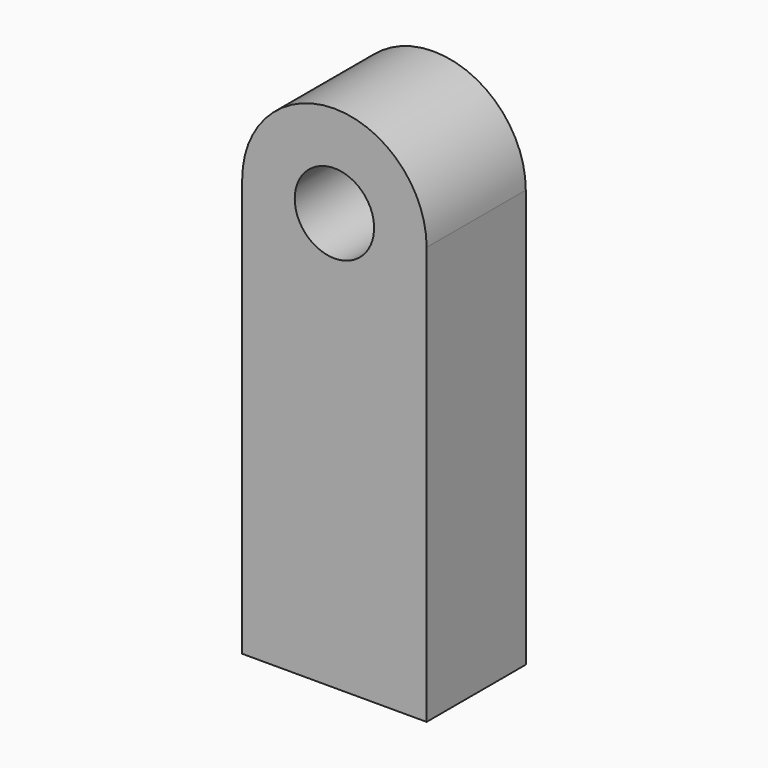
from build123d import *

# Parameters (mm, degrees)
F1_DEPTH = 19.812


with BuildPart() as f1:
    # F0 (on Front) → F1 (new body)
    with BuildSketch(Plane.XZ):
        with BuildLine():
            ThreePointArc((-14.738683, 33.387631), (0, 18.648949), (14.738683, 33.387631))
            Line((14.738683, 33.387631), (6.343522, 33.387631))
            ThreePointArc((6.343522, 33.387631), (0, 27.044109), (-6.343522, 33.387631))
            Line((-6.343522, 33.387631), (-14.738683, 33.387631))
        make_face()
        with BuildLine():
            Line((6.343522, 33.387631), (14.738683, 33.387631))
            ThreePointArc((14.738683, 33.387631), (0, 48.126314), (-14.738683, 33.387631))
            Line((-14.738683, 33.387631), (-6.343522, 33.387631))
            ThreePointArc((-6.343522, 33.387631), (0, 39.731153), (6.343522, 33.387631))
        make_face()
        with BuildLine():
            Line((-14.738683, -33.387631), (14.738683, -33.387631))
            Line((14.738683, -33.387631), (14.738683, 33.387631))
            ThreePointArc((14.738683, 33.387631), (0, 18.648949), (-14.738683, 33.387631))
            Line((-14.738683, 33.387631), (-14.738683, -33.387631))
        make_face()
    extrude(amount=F1_DEPTH)


solid = f1.part
